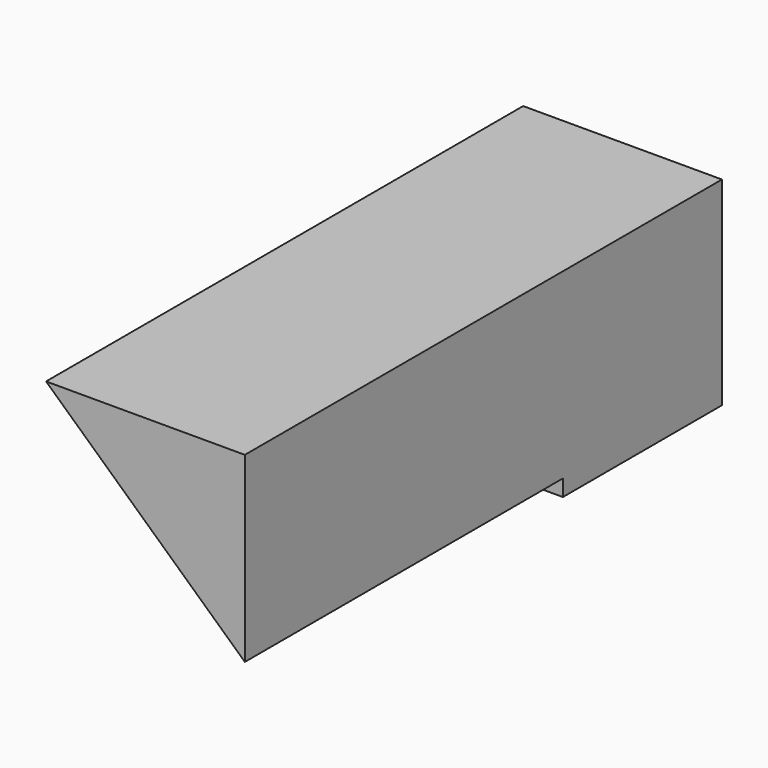
from build123d import *

# Parameters (mm, degrees)
F0_W     = 50.8
F0_H     = 50.8
F1_DEPTH = 50.8
F3_DEPTH = 101.6


with BuildPart() as f1:
    # F0 (on Front) → F1 (new body)
    with BuildSketch(Plane.XZ):
        with Locations((25.4, 25.4)):
            Rectangle(F0_W, F0_H)
    extrude(amount=F1_DEPTH)

    # F2 (on face) → F3 (join)
    with BuildSketch(Plane.XZ.offset(50.8)):
        Polygon((50.8, 4.202019), (50.8, 50.8), (0, 50.8), align=None)
    extrude(amount=F3_DEPTH)


solid = f1.part
